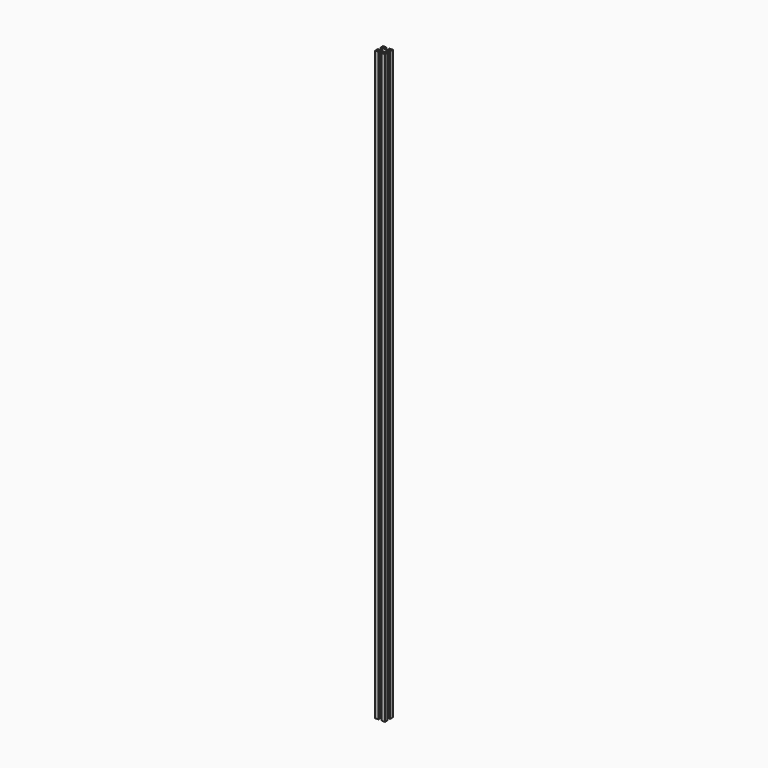
from build123d import *

# Parameters (mm, degrees)
PAD_DEPTH    = 1200
SKETCH001_R  = 2
POCKET_DEPTH = 4.001


with BuildPart() as change_me_for_height:
    # Sketch → Pad (new body)
    with BuildSketch(Plane.XY):
        Polygon((-10, 3), (-10, 10), (-3, 10), (-3, 8), (-6, 8), (-6, 7), (-3, 4), (3, 4), (6, 7), (6, 8), (3, 8), (3, 10), (10, 10), (10, 3), (8, 3), (8, 6), (7, 6), (4, 3), (4, 0), (-4, 0), (-4, 3), (-7, 6), (-8, 6), (-8, 3), align=None)
    pad = extrude(amount=PAD_DEPTH)


with BuildPart() as mirrored:
    # Mirrored base: copy of Change_me_for_height
    add(change_me_for_height.part)

    # Mirrored: Pad across Sketch H_Axis
    add(pad.mirror(Plane.ZX))


with BuildPart() as pocket:
    # Fusion base: copy of Change_me_for_height
    add(change_me_for_height.part)

    # Fusion: union Mirrored
    add(mirrored.part)

    # Sketch001 → Pocket (cut, through all)
    with BuildSketch(Plane.XZ.offset(-6)):
        Circle(SKETCH001_R)
    extrude(amount=-POCKET_DEPTH, mode=Mode.SUBTRACT)


solid = pocket.part
